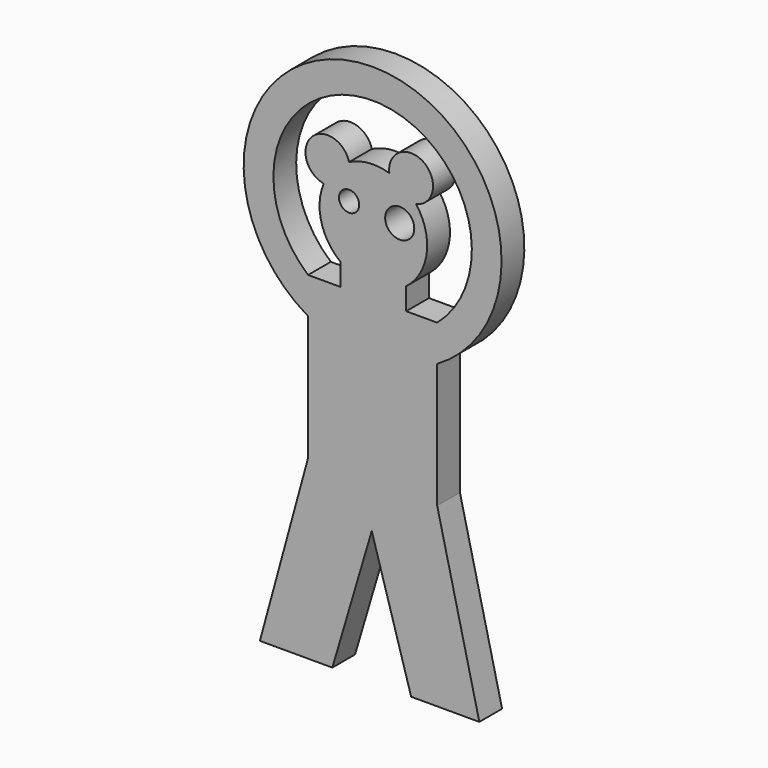
from build123d import *

# Parameters (mm, degrees)
F0_R     = 0.748499
F0_R_2   = 1.073278
F0_W     = 4.846455
F0_H     = 1.625112
F1_DEPTH = 2.1


with BuildPart() as f1:
    # F0 (on Front) → F1 (new body)
    with BuildSketch(Plane.XZ):
        with BuildLine():
            ThreePointArc((-21.443578, 12.330635), (-21.622454, 9.776879), (-20.205865, 7.644522))
            Line((-20.205865, 7.644522), (-15.35941, 7.644522))
            ThreePointArc((-15.35941, 7.644522), (-13.844625, 10.276462), (-14.632234, 13.209269))
            ThreePointArc((-14.632234, 13.209269), (-15.513563, 14.050521), (-16.608446, 14.585011))
            ThreePointArc((-16.608446, 14.585011), (-18.11609, 14.748534), (-19.575115, 14.335043))
            ThreePointArc((-19.575115, 14.335043), (-20.687694, 13.49909), (-21.443578, 12.330635))
        make_face()
        with Locations((-19.575115, 11.795032)):
            Circle(F0_R, mode=Mode.SUBTRACT)
        with Locations((-15.838588, 11.580638)):
            Circle(F0_R_2, mode=Mode.SUBTRACT)
        Polygon((-15.35941, 6.01941), (-20.205865, 6.01941), (-22.600182, 6.01941), (-22.600182, 3.343472), (-22.600182, -5.8649), (-13.076994, -5.8649), (-13.076994, 3.343472), (-13.076994, 6.01941), align=None)
        with BuildLine():
            Line((-22.600182, 3.343472), (-22.600182, 6.01941))
            ThreePointArc((-22.600182, 6.01941), (-17.838588, 18.901843), (-13.076994, 6.01941))
            Line((-13.076994, 6.01941), (-13.076994, 3.343472))
            ThreePointArc((-13.076994, 3.343472), (-17.838588, 21.095032), (-22.600182, 3.343472))
        make_face()
        Polygon((-13.076994, -5.8649), (-22.600182, -5.8649), (-26.155973, -18.904968), (-20.811403, -18.904968), (-17.903329, -9.080392), (-14.995254, -18.904968), (-9.965071, -18.904968), align=None)
        with Locations((-17.782637, 6.831966)):
            Rectangle(F0_W, F0_H)
        with BuildLine():
            ThreePointArc((-19.575115, 14.335043), (-22.353082, 15.051527), (-21.443578, 12.330635))
            ThreePointArc((-21.443578, 12.330635), (-20.687694, 13.49909), (-19.575115, 14.335043))
        make_face()
        with BuildLine():
            ThreePointArc((-16.608446, 14.585011), (-15.513563, 14.050521), (-14.632234, 13.209269))
            ThreePointArc((-14.632234, 13.209269), (-14.074413, 16.117817), (-16.608446, 14.585011))
        make_face()
        with BuildLine():
            ThreePointArc((-21.443578, 12.330635), (-21.622454, 9.776879), (-20.205865, 7.644522))
            Line((-20.205865, 7.644522), (-15.35941, 7.644522))
            ThreePointArc((-15.35941, 7.644522), (-13.844625, 10.276462), (-14.632234, 13.209269))
            ThreePointArc((-14.632234, 13.209269), (-15.513563, 14.050521), (-16.608446, 14.585011))
            ThreePointArc((-16.608446, 14.585011), (-18.11609, 14.748534), (-19.575115, 14.335043))
            ThreePointArc((-19.575115, 14.335043), (-20.687694, 13.49909), (-21.443578, 12.330635))
        make_face()
        with Locations((-19.575115, 11.795032)):
            Circle(F0_R, mode=Mode.SUBTRACT)
        with Locations((-15.838588, 11.580638)):
            Circle(F0_R_2, mode=Mode.SUBTRACT)
    extrude(amount=F1_DEPTH)


solid = f1.part
